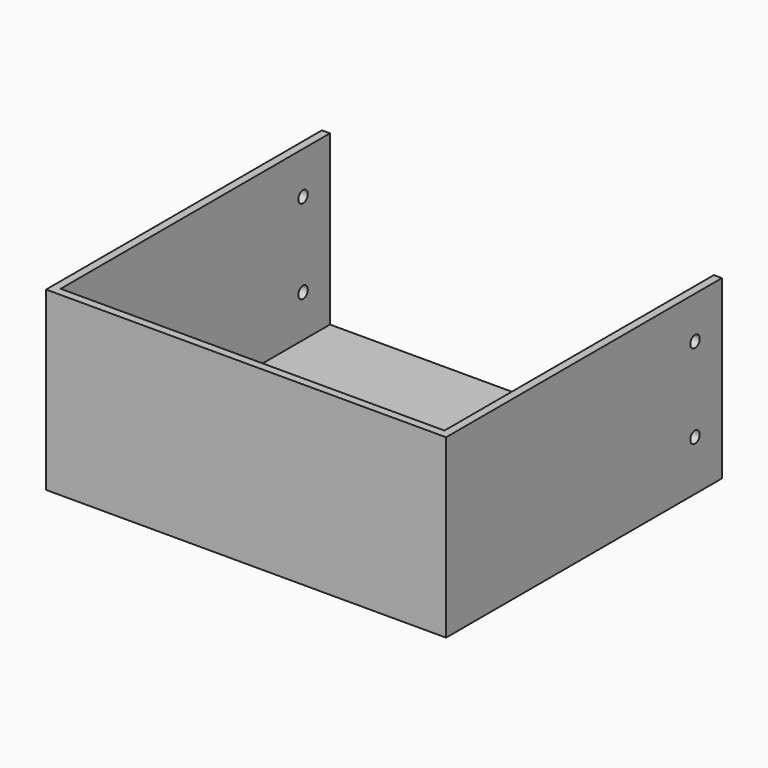
from build123d import *

# Parameters (mm, degrees)
F0_W     = 114
F0_H     = 100
F1_DEPTH = 2.4
F2_DEPTH = 52.4
F3_R     = 1.75
F4_DEPTH = 2.401
F5_DEPTH = 116.401


with BuildPart() as f1:
    # F0 (on Top) → F1 (new body)
    with BuildSketch(Plane.XY):
        Rectangle(F0_W, F0_H)
        Polygon((-57, -50), (-57, 50), (-59.4, 50), (-59.4, -52.4), (59.4, -52.4), (59.4, 50), (57, 50), (57, -50), align=None)
    extrude(amount=F1_DEPTH)

    # F0 (on Top) → F2 (join)
    with BuildSketch(Plane.XY):
        Polygon((-57, -50), (-57, 50), (-59.4, 50), (-59.4, -52.4), (59.4, -52.4), (59.4, 50), (57, 50), (57, -50), align=None)
    extrude(amount=F2_DEPTH)

    # F3 (on face) → F4 (cut, through all)
    with BuildSketch(Plane(origin=(57, 0, 0), x_dir=(0, -1, 0), z_dir=(-1, 0, 0))):
        with Locations((-40, 39.9)):
            Circle(F3_R)
        with Locations((-40, 14.9)):
            Circle(F3_R)
    extrude(amount=-F4_DEPTH, mode=Mode.SUBTRACT)

    # F3 (on face) → F5 (cut, through all)
    with BuildSketch(Plane(origin=(57, 0, 0), x_dir=(0, -1, 0), z_dir=(-1, 0, 0))):
        with Locations((-40, 39.9)):
            Circle(F3_R)
        with Locations((-40, 14.9)):
            Circle(F3_R)
    extrude(amount=F5_DEPTH, mode=Mode.SUBTRACT)


solid = f1.part
